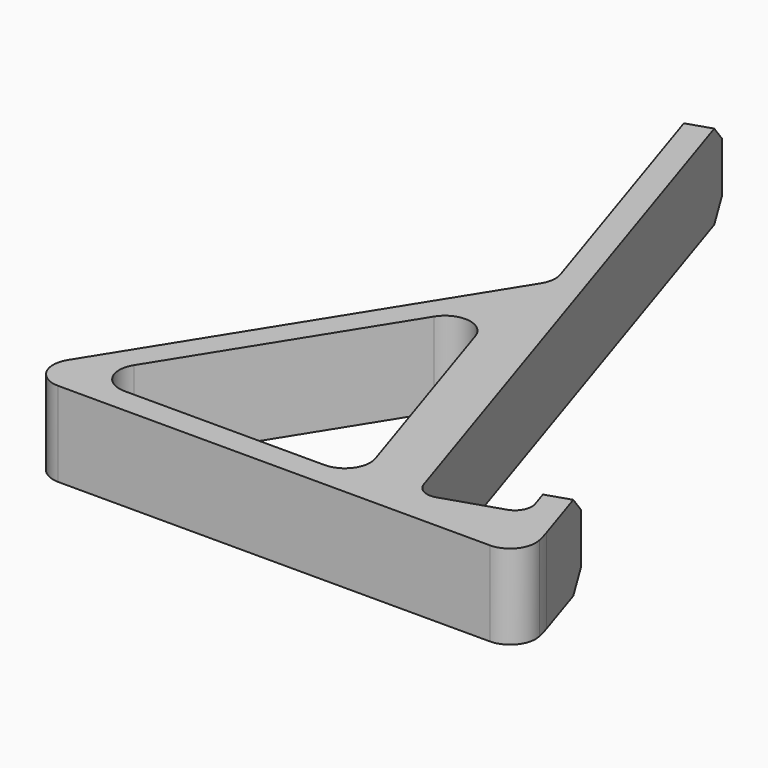
from build123d import *

# Parameters (mm, degrees)
F1_DEPTH = 5
F2_SIZE  = 2
F3_R     = 3
F4_R     = 2


with BuildPart() as f1:
    # F0 (on Top) → F1 (new body, symmetric)
    with BuildSketch(Plane.XY):
        with BuildLine():
            Line((10.4616216792, 7.1794074701), (0, 3.780220532))
            Line((0, 3.780220532), (-24.72135955, 79.8647418356))
            Line((-24.72135955, 79.8647418356), (-27.5745290989, 78.9376908525))
            Line((-27.5745290989, 78.9376908525), (-16.5475048962, 45))
            Line((-16.5475048962, 45), (-44.6666257322, 0))
            Line((-44.6666257322, 0), (-1.9261185658, 0))
            Line((-1.9261185658, 0), (15.0738814342, 0))
            ThreePointArc((15.0738814342, 0), (14.8645832244, 2.6593859057), (14.2418422113, 5.2532889044))
            Line((14.2418422113, 5.2532889044), (11.4606892619, 13.812797551))
            Line((11.4606892619, 13.812797551), (8.607519713, 12.8857465679))
            Line((8.607519713, 12.8857465679), (10.4616216792, 7.1794074701))
        make_face()
        Polygon((-6.0552643272, 3), (-39.2544824663, 3), (-17.4126071962, 37.9543071739), align=None, mode=Mode.SUBTRACT)
    extrude(amount=F1_DEPTH, both=True)

    # F2
    f2_edges = [f1.edges().sort_by_distance(p)[0] for p in [
        (10.034104, 13.349272, 5),
        (10.034104, 13.349272, -5),
        (-26.147944, 79.401216, 5),
        (-26.147944, 79.401216, -5),
    ]]
    chamfer(f2_edges, length=F2_SIZE)

    # F3
    f3_edges = [f1.edges().sort_by_distance(p)[0] for p in [
        (-17.412607, 37.954307, 0),
        (-39.254482, 3, 0),
        (-6.055264, 3, 0),
        (-44.666626, 0, 0),
        (-16.547505, 45, 0),
        (15.073881, 0, 0),
    ]]
    fillet(f3_edges, radius=F3_R)

    # F4
    f4_edges = [f1.edges().sort_by_distance(p)[0] for p in [
        (0, 3.780221, 0),
        (10.461622, 7.179407, 0),
    ]]
    fillet(f4_edges, radius=F4_R)


solid = f1.part
